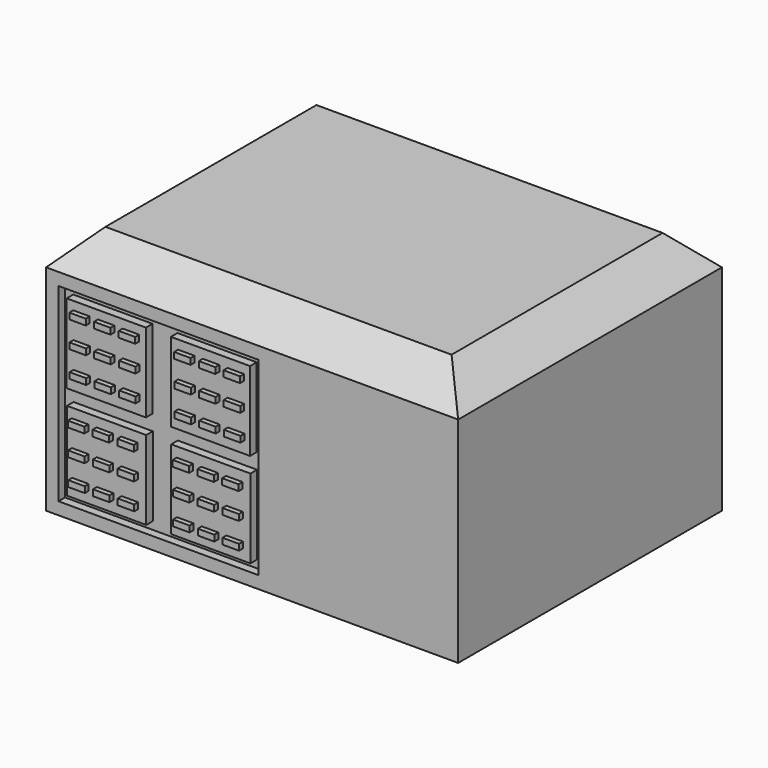
from build123d import *

# Parameters (mm, degrees)
F0_W      = 63.5
F0_H      = 50.8
F1_DEPTH  = 38.1
F2_SIZE   = 5.08
F3_R      = 3.175
F4_DEPTH  = 12.7
F5_W      = 30.805484
F5_H      = 29.21
F6_DEPTH  = 1.27
F7_W      = 12.203076
F7_H      = 12.192
F8_DEPTH  = 1.27
F9_W      = 2.545274
F9_H      = 0.933269
F9_W_2    = 2.545275
F10_DEPTH = 0.762


with BuildPart() as f1:
    # F0 (on Top) → F1 (new body)
    with BuildSketch(Plane.XY):
        with Locations((-2.185041, -0.428895)):
            Rectangle(F0_W, F0_H)
    extrude(amount=F1_DEPTH)

    # F2
    f2_edges = [f1.edges().sort_by_distance(p)[0] for p in [
        (-33.935041, -0.428895, 38.1),
        (-2.185041, -25.828895, 38.1),
        (29.564959, -0.428895, 38.1),
        (-2.185041, 24.971105, 38.1),
    ]]
    chamfer(f2_edges, length=F2_SIZE)

    # F3 (on face) → F4 (cut)
    with BuildSketch(Plane(origin=(-33.935041, 0, 0), x_dir=(0, -1, 0), z_dir=(-1, 0, 0))):
        with Locations((0, 16.51)):
            Circle(F3_R)
    extrude(amount=-F4_DEPTH, mode=Mode.SUBTRACT)

    # F5 (on face) → F6 (cut)
    with BuildSketch(Plane.XZ.offset(25.828895)):
        with Locations((-16.627299, 16.51)):
            Rectangle(F5_W, F5_H)
    extrude(amount=-F6_DEPTH, mode=Mode.SUBTRACT)

    # F7 (on face) → F8 (join)
    with BuildSketch(Plane.XZ.offset(24.558895)):
        with Locations((-24.658503, 23.749)):
            Rectangle(F7_W, F7_H)
        with Locations((-8.606803, 23.749)):
            Rectangle(F7_W, F7_H)
        with Locations((-24.606782, 9.18722)):
            Rectangle(F7_W, F7_H)
        with Locations((-8.555082, 9.18722)):
            Rectangle(F7_W, F7_H)
    extrude(amount=F8_DEPTH)

    # F9 (on face) → F10 (join)
    with BuildSketch(Plane.XZ.offset(25.828895)):
        with Locations((-28.48023, 28.082971)):
            Rectangle(F9_W, F9_H)
        with Locations((-24.67023, 28.082971)):
            Rectangle(F9_W, F9_H)
        with Locations((-20.86023, 28.082971)):
            Rectangle(F9_W, F9_H)
        with Locations((-28.448142, 24.052954)):
            Rectangle(F9_W_2, F9_H)
        with Locations((-24.638143, 24.052954)):
            Rectangle(F9_W_2, F9_H)
        with Locations((-20.828142, 24.052954)):
            Rectangle(F9_W_2, F9_H)
        with Locations((-20.796056, 20.022937)):
            Rectangle(F9_W_2, F9_H)
        with Locations((-24.606055, 20.022937)):
            Rectangle(F9_W_2, F9_H)
        with Locations((-28.416055, 20.022937)):
            Rectangle(F9_W_2, F9_H)
        with Locations((-28.702667, 13.362789)):
            Rectangle(F9_W_2, F9_H)
        with Locations((-24.892668, 13.362789)):
            Rectangle(F9_W_2, F9_H)
        with Locations((-21.082667, 13.362789)):
            Rectangle(F9_W_2, F9_H)
        with Locations((-21.05058, 9.332771)):
            Rectangle(F9_W, F9_H)
        with Locations((-24.86058, 9.332771)):
            Rectangle(F9_W, F9_H)
        with Locations((-28.67058, 9.332771)):
            Rectangle(F9_W, F9_H)
        with Locations((-28.638492, 5.302754)):
            Rectangle(F9_W_2, F9_H)
        with Locations((-24.828492, 5.302754)):
            Rectangle(F9_W_2, F9_H)
        with Locations((-21.018493, 5.302754)):
            Rectangle(F9_W_2, F9_H)
        with Locations((-12.518417, 9.247929)):
            Rectangle(F9_W_2, F9_H)
        with Locations((-12.550504, 13.277945)):
            Rectangle(F9_W_2, F9_H)
        with Locations((-8.740505, 13.277945)):
            Rectangle(F9_W_2, F9_H)
        with Locations((-8.708417, 9.247929)):
            Rectangle(F9_W_2, F9_H)
        with Locations((-4.898417, 9.247929)):
            Rectangle(F9_W_2, F9_H)
        with Locations((-4.930504, 13.277945)):
            Rectangle(F9_W_2, F9_H)
        with Locations((-4.86633, 5.217911)):
            Rectangle(F9_W, F9_H)
        with Locations((-8.67633, 5.217911)):
            Rectangle(F9_W, F9_H)
        with Locations((-12.48633, 5.217911)):
            Rectangle(F9_W, F9_H)
        with Locations((-12.328067, 27.998128)):
            Rectangle(F9_W_2, F9_H)
        with Locations((-8.518067, 27.998128)):
            Rectangle(F9_W_2, F9_H)
        with Locations((-4.708067, 27.998128)):
            Rectangle(F9_W_2, F9_H)
        with Locations((-4.67598, 23.968111)):
            Rectangle(F9_W, F9_H)
        with Locations((-8.48598, 23.968111)):
            Rectangle(F9_W, F9_H)
        with Locations((-12.29598, 23.968111)):
            Rectangle(F9_W, F9_H)
        with Locations((-12.263892, 19.938094)):
            Rectangle(F9_W_2, F9_H)
        with Locations((-8.453893, 19.938094)):
            Rectangle(F9_W_2, F9_H)
        with Locations((-4.643892, 19.938094)):
            Rectangle(F9_W_2, F9_H)
    extrude(amount=F10_DEPTH)


solid = f1.part
